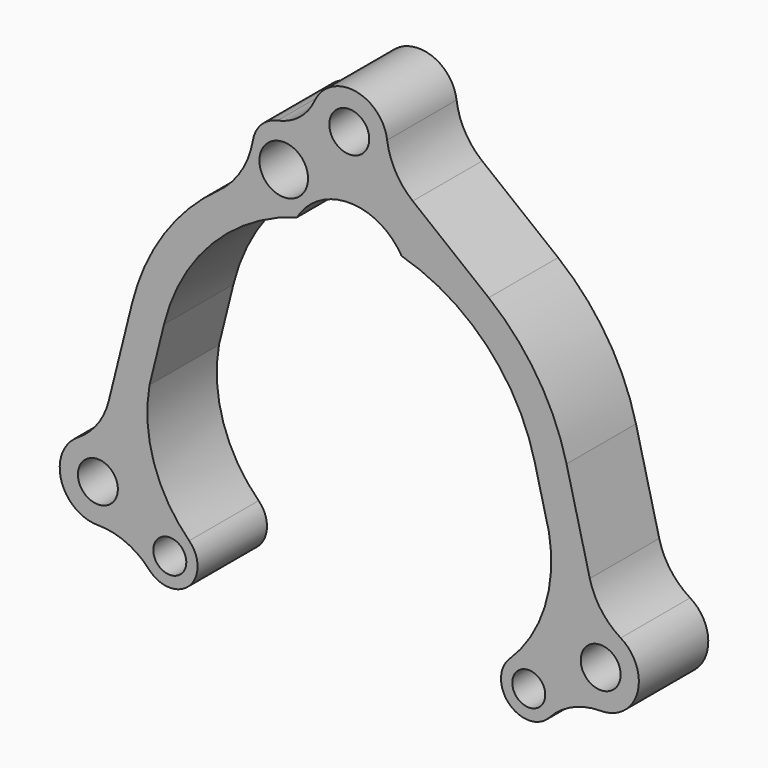
from build123d import *

# Parameters (mm, degrees)
F1_DEPTH = 50
F2_R     = 11.5
F3_DEPTH = 64
F4_R     = 14
F5_DEPTH = 62
F6_R     = 9.504259
F6_R_2   = 9.5
F7_DEPTH = 58
F8_R     = 17
F9_DEPTH = 23


with BuildPart() as f1:
    # F0 (on Front) → F1 (new body)
    with BuildSketch(Plane.XZ):
        with BuildLine():
            ThreePointArc((-106.73253, 26.611409), (-79.062913, 76.47912), (-30.141732, 105.789773))
            ThreePointArc((-30.141732, 105.789773), (0, 123), (30.141732, 105.789773))
            ThreePointArc((30.141732, 105.789773), (79.062913, 76.47912), (106.73253, 26.611409))
            Line((106.73253, 26.611409), (115.068493, -6.822315))
            ThreePointArc((115.068493, -6.822315), (112.580369, -45.473999), (92.227353, -78.426968))
            ThreePointArc((92.227353, -78.426968), (92.277337, -101.381582), (115.220751, -100.66285))
            ThreePointArc((115.220751, -100.66285), (128.638477, -91.018209), (144.809642, -87.619991))
            ThreePointArc((144.809642, -87.619991), (165.992581, -71.632085), (156.379154, -46.895229))
            ThreePointArc((156.379154, -46.895229), (145.085673, -36.45592), (138.565787, -22.527067))
            Line((138.565787, -22.527067), (125.168149, 31.207925))
            ThreePointArc((125.168149, 31.207925), (108.494033, 69.785707), (80.304388, 100.956452))
            Line((80.304388, 100.956452), (36.575319, 135.740125))
            ThreePointArc((36.575319, 135.740125), (26.653961, 147.361151), (21.814031, 161.854483))
            ThreePointArc((21.814031, 161.854483), (3.277246, 180.754532), (-20.004938, 168.154367))
            ThreePointArc((-20.004938, 168.154367), (-28.641021, 157.133884), (-41.3379, 151.232848))
            ThreePointArc((-41.3379, 151.232848), (-50.681665, 146.131487), (-55.509144, 136.643322))
            ThreePointArc((-55.509144, 136.643322), (-62.367303, 118.652566), (-75.515118, 104.587126))
            ThreePointArc((-75.515118, 104.587126), (-106.838992, 72.294051), (-125.168149, 31.207925))
            Line((-125.168149, 31.207925), (-138.565787, -22.527067))
            ThreePointArc((-138.565787, -22.527067), (-145.085673, -36.45592), (-156.379154, -46.895229))
            ThreePointArc((-156.379154, -46.895229), (-165.992581, -71.632085), (-144.809642, -87.619991))
            ThreePointArc((-144.809642, -87.619991), (-128.638477, -91.018209), (-115.220751, -100.66285))
            ThreePointArc((-115.220751, -100.66285), (-92.277337, -101.381582), (-92.227353, -78.426968))
            ThreePointArc((-92.227353, -78.426968), (-112.580369, -45.473999), (-115.068493, -6.822315))
            Line((-115.068493, -6.822315), (-106.73253, 26.611409))
        make_face()
    extrude(amount=-F1_DEPTH)

    # F2 (on Front) → F3 (cut)
    with BuildSketch(Plane.XZ):
        with Locations((0, 159)):
            Circle(F2_R)
        with Locations((144.83, -65.62)):
            Circle(F2_R)
        with Locations((-144.83, -65.62)):
            Circle(F2_R)
    extrude(amount=-F3_DEPTH, mode=Mode.SUBTRACT)

    # F4 (on Front) → F5 (cut)
    with BuildSketch(Plane.XZ):
        with Locations((-37.77, 127.52)):
            Circle(F4_R)
    extrude(amount=-F5_DEPTH, mode=Mode.SUBTRACT)

    # F6 (on Front) → F7 (cut)
    with BuildSketch(Plane.XZ):
        with Locations((-103.4, -89.88)):
            Circle(F6_R)
        with Locations((103.4, -89.88)):
            Circle(F6_R_2)
    extrude(amount=-F7_DEPTH, mode=Mode.SUBTRACT)

    # F8 (on face) → F9 (cut)
    with BuildSketch(Plane(origin=(0, 50, 0), x_dir=(-1, 0, 0), z_dir=(0, 1, 0))):
        with Locations((-144.83, -65.62)):
            Circle(F8_R)
        with Locations((144.83, -65.62)):
            Circle(F8_R)
        with Locations((0, 159)):
            Circle(F8_R)
    extrude(amount=-F9_DEPTH, mode=Mode.SUBTRACT)


solid = f1.part
